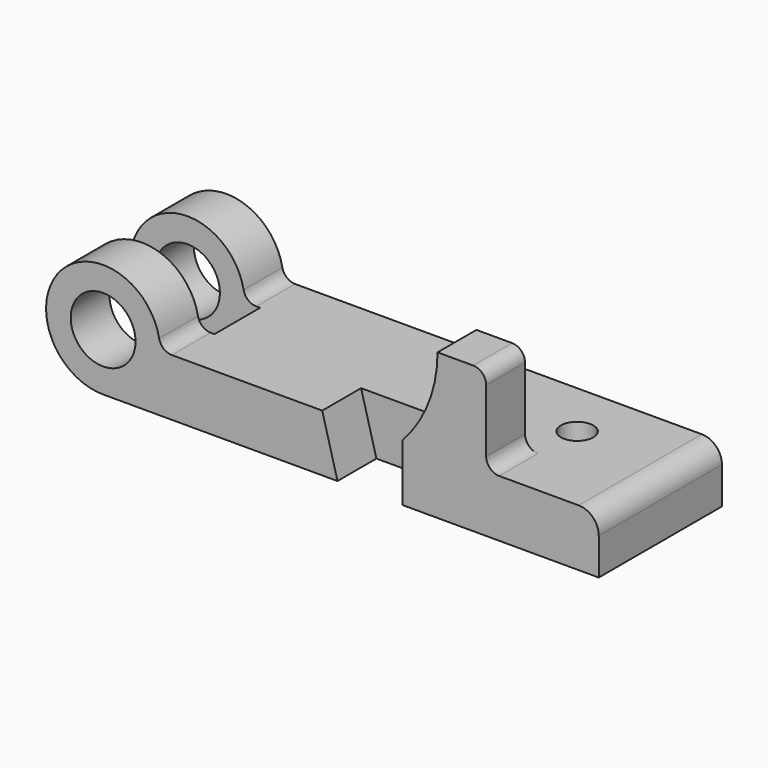
from build123d import *

# Parameters (mm, degrees)
F0_R      = 12.7
F11_DEPTH = 30.1625
F2_DEPTH  = 19.05
F4_DEPTH  = 41.275
F5_R      = 5.08
F6_R      = 7.874
F7_W      = 50.8
F7_H      = 22.3266
F8_DEPTH  = 38.1
F9_R      = 6.35
F10_DEPTH = 22.353


with BuildPart() as f11:
    # F0 (on Front) → F11 (new body, symmetric)
    with BuildSketch(Plane.XZ):
        with BuildLine():
            Line((85.852, 0), (22.352, 0))
            ThreePointArc((22.352, 0), (-15.805251, 15.805251), (0, -22.352))
            Line((0, -22.352), (91.8464, -22.352))
            Line((91.8464, -22.352), (85.852, 0))
        make_face()
        Circle(F0_R, mode=Mode.SUBTRACT)
        with BuildLine():
            ThreePointArc((131.0386, 34.798), (127.464415, 16.082358), (117.2464, 0))
            Line((117.2464, 0), (117.2464, -22.352))
            Line((117.2464, -22.352), (194.2084, -22.352))
            Line((194.2084, -22.352), (194.2084, 0))
            Line((194.2084, 0), (150.0886, 0))
            Line((150.0886, 0), (150.0886, 34.798))
            Line((150.0886, 34.798), (131.0386, 34.798))
        make_face()
        Polygon((117.2464, 0), (85.852, 0), (91.8464, -22.352), (117.2464, -22.352), align=None)
    extrude(amount=F11_DEPTH, both=True)

    # F1 (on face) → F2 (cut)
    with BuildSketch(Plane.XZ.offset(30.1625)):
        Polygon((117.2464, 0), (85.852, 0), (91.8464, -22.352), (117.2464, -22.352), align=None)
    extrude(amount=-F2_DEPTH, mode=Mode.SUBTRACT)

    # F3 (on face) → F4 (cut)
    with BuildSketch(Plane(origin=(0, 30.1625, 0), x_dir=(-1, 0, 0), z_dir=(0, 1, 0))):
        with BuildLine():
            Line((-150.0886, 34.798), (-150.0886, 0))
            Line((-150.0886, 0), (-117.2464, 0))
            ThreePointArc((-117.2464, 0), (-127.464415, 16.082358), (-131.0386, 34.798))
            Line((-131.0386, 34.798), (-150.0886, 34.798))
        make_face()
    extrude(amount=-F4_DEPTH, mode=Mode.SUBTRACT)

    # F5
    f5_edges = [f11.edges().sort_by_distance(p)[0] for p in [
        (22.352, 0, 0),
        (150.0886, -20.6375, 34.798),
        (150.0886, -20.6375, 0),
    ]]
    fillet(f5_edges, radius=F5_R)

    # F6
    f6_edges = [f11.edges().sort_by_distance(p)[0] for p in [
        (194.2084, 0, 0),
    ]]
    fillet(f6_edges, radius=F6_R)

    # F7 (on Top) → F8 (cut, symmetric)
    with BuildSketch(Plane.XY):
        with Locations((3.048, 0)):
            Rectangle(F7_W, F7_H)
    extrude(amount=F8_DEPTH, both=True, mode=Mode.SUBTRACT)

    # F9 (on face) → F10 (cut, through all)
    with BuildSketch(Plane.XY):
        with Locations((155.3464, 7.8105)):
            Circle(F9_R)
    extrude(amount=-F10_DEPTH, mode=Mode.SUBTRACT)


solid = f11.part
